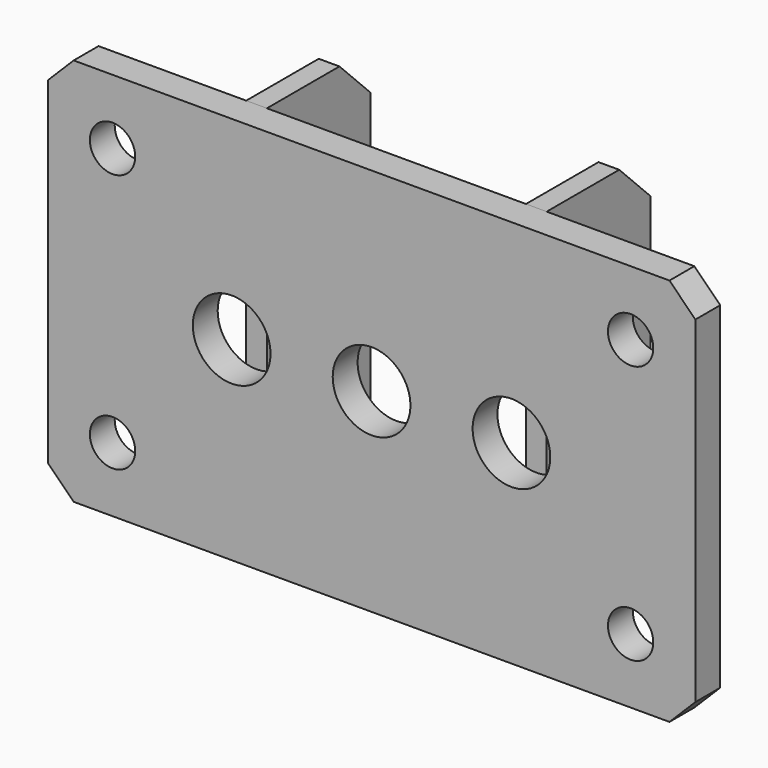
from build123d import *

# Parameters (mm, degrees)
F0_W     = 250
F0_H     = 150
F1_DEPTH = 6
F2_SIZE  = 10
F4_D     = 17.5
F6_D     = 30
F7_W     = 8
F7_H     = 150
F8_DEPTH = 50
F9_SIZE  = 15


with BuildPart() as f1:
    # F0 (on Front) → F1 (new body, symmetric)
    with BuildSketch(Plane.XZ):
        Rectangle(F0_W, F0_H)
    extrude(amount=F1_DEPTH, both=True)

    # F2
    f2_edges = [f1.edges().sort_by_distance(p)[0] for p in [
        (125, 0, -75),
        (-125, 0, 75),
        (125, 0, 75),
        (-125, 0, -75),
    ]]
    chamfer(f2_edges, length=F2_SIZE)

    # F4 (through all)
    with Locations(Plane.XZ.offset(6)):
        with Locations((-100, 50), (-100, -50), (100, -50), (100, 50)):
            Hole(F4_D / 2)

    # F6 (through all)
    with Locations(Plane.XZ.offset(6)):
        with Locations((0, 0), (-54, 0), (54, 0)):
            Hole(F6_D / 2)


with BuildPart() as f8:
    # F7 (on face) → F8 (new body)
    with BuildSketch(Plane(origin=(0, 6, 0), x_dir=(-1, 0, 0), z_dir=(0, 1, 0))):
        with Locations((54, 0)):
            Rectangle(F7_W, F7_H)
    extrude(amount=F8_DEPTH)

    # F9
    f9_edges = [f8.edges().sort_by_distance(p)[0] for p in [
        (-54, 56, -75),
        (-54, 56, 75),
    ]]
    chamfer(f9_edges, length=F9_SIZE)


with BuildPart() as f10_1:
    # F10: instance of F8
    add(f8.part.mirror(Plane.YZ))


solid = Compound([f1.part, f8.part, f10_1.part])
